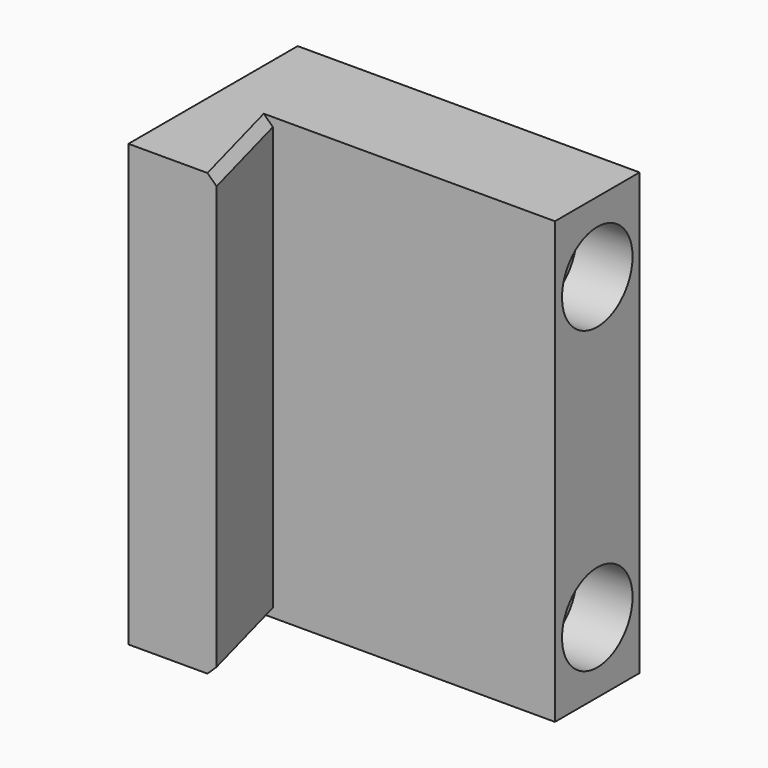
from build123d import *

# Parameters (mm, degrees)
F1_DEPTH       = 50
F3_D           = 5.1054
F3_CBORE_D     = 10
F3_CBORE_DEPTH = 6.35
F4_SIZE        = 1


with BuildPart() as f1:
    # F0 (on Top) → F1 (new body)
    with BuildSketch(Plane.XY):
        Polygon((-32, 0), (0, 0), (0, 12), (-38.78461, 12), (-38.78461, -12), (-28.78461, -12), align=None)
    extrude(amount=F1_DEPTH)

    # F3 (through all)
    with Locations(Plane.YZ):
        with Locations((6, 42), (6, 8)):
            CounterBoreHole(F3_D / 2, F3_CBORE_D / 2, F3_CBORE_DEPTH)

    # F4
    f4_edges = [f1.edges().sort_by_distance(p)[0] for p in [
        (-30.392305, -6, 50),
        (-30.392305, -6, 0),
    ]]
    chamfer(f4_edges, length=F4_SIZE)


solid = f1.part
